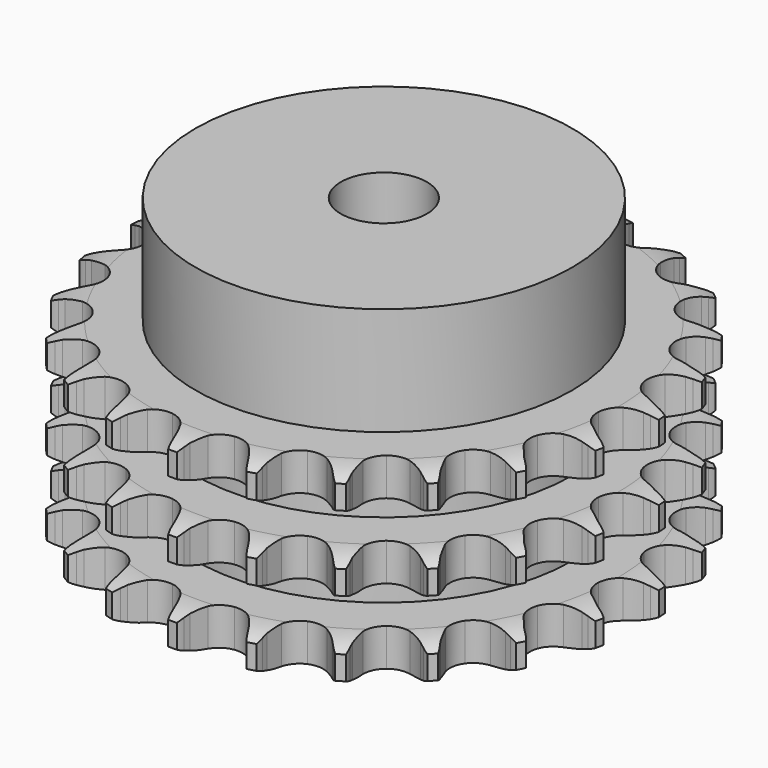
from build123d import *

# Parameters (mm, degrees)
PAD_DEPTH         = 34.9
SKETCH001_R       = 35
PAD001_DEPTH      = 55
SKETCH002_R       = 8
POCKET_DEPTH      = 0.001
POCKET_DEPTH_BACK = 55.001


with BuildPart() as part:
    # Sprocket → Pad (new body)
    with BuildSketch(Plane.XY):
        with BuildLine():
            ThreePointArc((-6.865869, 49.952903), (-5.980558, 48.870427), (-5.328613, 47.633296))
            Line((-5.328613, 47.633296), (-4.916044, 46.61438))
            ThreePointArc((-4.916044, 46.61438), (-4.255818, 45.256795), (-3.417835, 44.001119))
            ThreePointArc((-3.417835, 44.001119), (-1.904528, 42.762779), (0, 42.319658))
            ThreePointArc((0, 42.319658), (1.904528, 42.762779), (3.417835, 44.001119))
            ThreePointArc((3.417835, 44.001119), (4.255818, 45.256795), (4.916044, 46.61438))
            Line((4.916044, 46.61438), (5.328613, 47.633296))
            ThreePointArc((5.328613, 47.633296), (5.980558, 48.870427), (6.865869, 49.952903))
            ThreePointArc((6.865869, 49.952903), (7.426301, 48.671715), (7.720296, 47.304566))
            Line((7.720296, 47.304566), (7.842665, 46.212126))
            ThreePointArc((7.842665, 46.212126), (8.112137, 44.726756), (8.580267, 43.291559))
            ThreePointArc((8.580267, 43.291559), (9.703357, 41.690855), (11.417707, 40.75033))
            ThreePointArc((11.417707, 40.75033), (13.371163, 40.663184), (15.162452, 41.447317))
            Line((15.162452, 41.447317), (17.310154, 43.55946))
            ThreePointArc((17.310154, 43.55946), (17.635485, 44.00268), (17.982323, 44.429281))
            ThreePointArc((17.982323, 44.429281), (18.943866, 45.444644), (20.088396, 46.248125))
            ThreePointArc((20.088396, 46.248125), (20.282385, 44.863244), (20.196626, 43.467474))
            Line((20.196626, 43.467474), (20.01972, 42.382529))
            ThreePointArc((20.01972, 42.382529), (19.878451, 40.879539), (19.942011, 39.371262))
            ThreePointArc((19.942011, 39.371262), (20.591588, 37.526911), (21.988615, 36.158737))
            ThreePointArc((21.988615, 36.158737), (23.84612, 35.547786), (25.78254, 35.819558))
            Line((25.78254, 35.819558), (28.420448, 37.273933))
            ThreePointArc((28.420448, 37.273933), (28.853295, 37.612944), (29.302366, 37.930151))
            ThreePointArc((29.302366, 37.930151), (30.502195, 38.648439), (31.821058, 39.113335))
            ThreePointArc((31.821058, 39.113335), (31.634217, 37.727471), (31.175064, 36.406597))
            Line((31.175064, 36.406597), (30.712004, 35.409614))
            ThreePointArc((30.712004, 35.409614), (30.170472, 34.000472), (29.824746, 32.530979))
            ThreePointArc((29.824746, 32.530979), (29.952635, 30.579767), (30.928728, 28.885416))
            ThreePointArc((30.928728, 28.885416), (32.552519, 27.795972), (34.490454, 27.535225))
            Line((34.490454, 27.535225), (37.422927, 28.22397))
            ThreePointArc((37.422927, 28.22397), (37.931187, 28.433628), (38.449187, 28.617914))
            ThreePointArc((38.449187, 28.617914), (39.798315, 28.985857), (41.193698, 29.077688))
            ThreePointArc((41.193698, 29.077688), (40.639884, 27.793624), (39.841391, 26.64561))
            Line((39.841391, 26.64561), (39.126519, 25.81053))
            ThreePointArc((39.126519, 25.81053), (38.224887, 24.599747), (37.495517, 23.278022))
            ThreePointArc((37.495517, 23.278022), (37.092233, 21.364662), (37.574999, 19.469795))
            ThreePointArc((37.574999, 19.469795), (38.844646, 17.982657), (40.64037, 17.208731))
            Line((40.64037, 17.208731), (43.64992, 17.080764))
            ThreePointArc((43.64992, 17.080764), (44.195897, 17.14552), (44.744407, 17.183218))
            ThreePointArc((44.744407, 17.183218), (46.142776, 17.173526), (47.511191, 16.885481))
            ThreePointArc((47.511191, 16.885481), (46.631477, 15.798452), (45.552864, 14.90844))
            Line((45.552864, 14.90844), (44.639199, 14.297197))
            ThreePointArc((44.639199, 14.297197), (43.444336, 13.37457), (42.385417, 12.29864))
            ThreePointArc((42.385417, 12.29864), (41.480869, 10.565038), (41.434504, 8.610189))
            ThreePointArc((41.434504, 8.610189), (42.255844, 6.835651), (43.776175, 5.605944))
            Line((43.776175, 5.605944), (46.639597, 4.670755))
            ThreePointArc((46.639597, 4.670755), (47.182799, 4.585808), (47.72114, 4.474121))
            ThreePointArc((47.72114, 4.474121), (49.065038, 4.087513), (50.304995, 3.440956))
            ThreePointArc((50.304995, 3.440956), (49.164627, 2.63158), (47.885889, 2.065579))
            Line((47.885889, 2.065579), (46.841194, 1.723506))
            ThreePointArc((46.841194, 1.723506), (45.441718, 1.157463), (44.131784, 0.407125))
            ThreePointArc((44.131784, 0.407125), (42.793059, -1.018147), (42.221001, -2.887996))
            ThreePointArc((42.221001, -2.887996), (42.53312, -4.818323), (43.665301, -6.41261))
            Line((43.665301, -6.41261), (46.170229, -8.085662))
            ThreePointArc((46.170229, -8.085662), (46.670369, -8.314013), (47.158614, -8.566801))
            ThreePointArc((47.158614, -8.566801), (48.348372, -9.301652), (49.367908, -10.258769))
            ThreePointArc((49.367908, -10.258769), (48.051461, -10.730463), (46.667437, -10.930476))
            Line((46.667437, -10.930476), (45.569192, -10.978009))
            ThreePointArc((45.569192, -10.978009), (44.068896, -11.145487), (42.605098, -11.514585))
            ThreePointArc((42.605098, -11.514585), (40.931484, -12.525821), (39.87616, -14.171991))
            ThreePointArc((39.87616, -14.171991), (39.655908, -16.114945), (40.315972, -17.95557))
            Line((40.315972, -17.95557), (42.276626, -20.242402))
            ThreePointArc((42.276626, -20.242402), (42.696611, -20.597222), (43.098549, -20.972363))
            ThreePointArc((43.098549, -20.972363), (44.045927, -22.000956), (44.769429, -23.197649))
            ThreePointArc((44.769429, -23.197649), (43.374538, -23.296678), (41.987874, -23.115868))
            Line((41.987874, -23.115868), (40.917532, -22.865336))
            ThreePointArc((40.917532, -22.865336), (39.427685, -22.621828), (37.918588, -22.582311))
            ThreePointArc((37.918588, -22.582311), (36.034207, -23.104511), (34.573886, -24.404914))
            ThreePointArc((34.573886, -24.404914), (33.837599, -26.216395), (33.976591, -28.166848))
            Line((33.976591, -28.166848), (35.247559, -30.897856))
            ThreePointArc((35.247559, -30.897856), (35.556241, -31.352829), (35.842062, -31.8225))
            ThreePointArc((35.842062, -31.8225), (36.476798, -33.06855), (36.850607, -34.416064))
            ThreePointArc((36.850607, -34.416064), (35.480724, -34.135084), (34.194264, -33.586862))
            Line((34.194264, -33.586862), (33.231205, -33.056845))
            ThreePointArc((33.231205, -33.056845), (31.862304, -32.420412), (30.419829, -31.97521))
            ThreePointArc((30.419829, -31.97521), (28.464438, -31.969646), (26.707426, -32.827836))
            ThreePointArc((26.707426, -32.827836), (25.509711, -34.373495), (25.117323, -36.289119))
            Line((25.117323, -36.289119), (25.604342, -39.261758))
            ThreePointArc((25.604342, -39.261758), (25.778827, -39.78314), (25.927334, -40.312508))
            ThreePointArc((25.927334, -40.312508), (26.202351, -41.683601), (26.198743, -43.081998))
            ThreePointArc((26.198743, -43.081998), (24.955467, -42.441847), (23.864621, -41.566872))
            Line((23.864621, -41.566872), (23.080271, -40.796679))
            ThreePointArc((23.080271, -40.796679), (21.933841, -39.814522), (20.664971, -38.996655))
            ThreePointArc((20.664971, -38.996655), (18.783593, -38.463738), (16.860198, -38.816069))
            ThreePointArc((16.860198, -38.816069), (15.289883, -39.981271), (14.395217, -41.719993))
            Line((14.395217, -41.719993), (14.062168, -44.713794))
            ThreePointArc((14.062168, -44.713794), (14.089516, -45.262918), (14.089693, -45.812722))
            ThreePointArc((14.089693, -45.812722), (13.984596, -47.207169), (13.603839, -48.552737))
            ThreePointArc((13.603839, -48.552737), (12.579377, -47.600893), (11.765048, -46.464057))
            Line((11.765048, -46.464057), (11.21758, -45.51081))
            ThreePointArc((11.21758, -45.51081), (10.378645, -44.255771), (9.377486, -43.125895))
            ThreePointArc((9.377486, -43.125895), (7.709654, -42.105151), (5.762526, -41.92549))
            ThreePointArc((5.762526, -41.92549), (3.936075, -42.623818), (2.605484, -44.056686))
            Line((2.605484, -44.056686), (1.477068, -46.849613))
            ThreePointArc((1.477068, -46.849613), (1.355249, -47.385752), (1.207085, -47.915216))
            ThreePointArc((1.207085, -47.915216), (0.729667, -49.229598), (0, -50.422542))
            ThreePointArc((0, -50.422542), (-0.729667, -49.229598), (-1.207085, -47.915216))
            Line((-1.207085, -47.915216), (-1.477068, -46.849613))
            ThreePointArc((-1.477068, -46.849613), (-1.946287, -45.414771), (-2.605484, -44.056686))
            ThreePointArc((-2.605484, -44.056686), (-3.936075, -42.623818), (-5.762526, -41.92549))
            ThreePointArc((-5.762526, -41.92549), (-7.709654, -42.105151), (-9.377486, -43.125895))
            Line((-9.377486, -43.125895), (-11.21758, -45.51081))
            ThreePointArc((-11.21758, -45.51081), (-11.47953, -45.994201), (-11.765048, -46.464057))
            ThreePointArc((-11.765048, -46.464057), (-12.579377, -47.600893), (-13.603839, -48.552737))
            ThreePointArc((-13.603839, -48.552737), (-13.984596, -47.207169), (-14.089693, -45.812722))
            Line((-14.089693, -45.812722), (-14.062168, -44.713794))
            ThreePointArc((-14.062168, -44.713794), (-14.126872, -43.205566), (-14.395217, -41.719993))
            ThreePointArc((-14.395217, -41.719993), (-15.289883, -39.981271), (-16.860198, -38.816069))
            ThreePointArc((-16.860198, -38.816069), (-18.783593, -38.463738), (-20.664971, -38.996655))
            Line((-20.664971, -38.996655), (-23.080271, -40.796679))
            ThreePointArc((-23.080271, -40.796679), (-23.462925, -41.191472), (-23.864621, -41.566872))
            ThreePointArc((-23.864621, -41.566872), (-24.955467, -42.441847), (-26.198743, -43.081998))
            ThreePointArc((-26.198743, -43.081998), (-26.202351, -41.683601), (-25.927334, -40.312508))
            Line((-25.927334, -40.312508), (-25.604342, -39.261758))
            ThreePointArc((-25.604342, -39.261758), (-25.259732, -37.792002), (-25.117323, -36.289119))
            ThreePointArc((-25.117323, -36.289119), (-25.509711, -34.373495), (-26.707426, -32.827836))
            ThreePointArc((-26.707426, -32.827836), (-28.464438, -31.969646), (-30.419829, -31.97521))
            Line((-30.419829, -31.97521), (-33.231205, -33.056845))
            ThreePointArc((-33.231205, -33.056845), (-33.706182, -33.333759), (-34.194264, -33.586862))
            ThreePointArc((-34.194264, -33.586862), (-35.480724, -34.135084), (-36.850607, -34.416064))
            ThreePointArc((-36.850607, -34.416064), (-36.476798, -33.06855), (-35.842062, -31.8225))
            Line((-35.842062, -31.8225), (-35.247559, -30.897856))
            ThreePointArc((-35.247559, -30.897856), (-34.519193, -29.575578), (-33.976591, -28.166848))
            ThreePointArc((-33.976591, -28.166848), (-33.837599, -26.216395), (-34.573886, -24.404914))
            ThreePointArc((-34.573886, -24.404914), (-36.034207, -23.104511), (-37.918588, -22.582311))
            Line((-37.918588, -22.582311), (-40.917532, -22.865336))
            ThreePointArc((-40.917532, -22.865336), (-41.449606, -23.003833), (-41.987874, -23.115868))
            ThreePointArc((-41.987874, -23.115868), (-43.374538, -23.296678), (-44.769429, -23.197649))
            ThreePointArc((-44.769429, -23.197649), (-44.045927, -22.000956), (-43.098549, -20.972363))
            Line((-43.098549, -20.972363), (-42.276626, -20.242402))
            ThreePointArc((-42.276626, -20.242402), (-41.218523, -19.165669), (-40.315972, -17.95557))
            ThreePointArc((-40.315972, -17.95557), (-39.655908, -16.114945), (-39.87616, -14.171991))
            ThreePointArc((-39.87616, -14.171991), (-40.931484, -12.525821), (-42.605098, -11.514585))
            Line((-42.605098, -11.514585), (-45.569192, -10.978009))
            ThreePointArc((-45.569192, -10.978009), (-46.118902, -10.967819), (-46.667437, -10.930476))
            ThreePointArc((-46.667437, -10.930476), (-48.051461, -10.730463), (-49.367908, -10.258769))
            ThreePointArc((-49.367908, -10.258769), (-48.348372, -9.301652), (-47.158614, -8.566801))
            Line((-47.158614, -8.566801), (-46.170229, -8.085662))
            ThreePointArc((-46.170229, -8.085662), (-44.860864, -7.334329), (-43.665301, -6.41261))
            ThreePointArc((-43.665301, -6.41261), (-42.53312, -4.818323), (-42.221001, -2.887996))
            ThreePointArc((-42.221001, -2.887996), (-42.793059, -1.018147), (-44.131784, 0.407125))
            Line((-44.131784, 0.407125), (-46.841194, 1.723506))
            ThreePointArc((-46.841194, 1.723506), (-47.36777, 1.881628), (-47.885889, 2.065579))
            ThreePointArc((-47.885889, 2.065579), (-49.164627, 2.63158), (-50.304995, 3.440956))
            ThreePointArc((-50.304995, 3.440956), (-49.065038, 4.087513), (-47.72114, 4.474121))
            Line((-47.72114, 4.474121), (-46.639597, 4.670755))
            ThreePointArc((-46.639597, 4.670755), (-45.17608, 5.040964), (-43.776175, 5.605944))
            ThreePointArc((-43.776175, 5.605944), (-42.255844, 6.835651), (-41.434504, 8.610189))
            ThreePointArc((-41.434504, 8.610189), (-41.480869, 10.565038), (-42.385417, 12.29864))
            Line((-42.385417, 12.29864), (-44.639199, 14.297197))
            ThreePointArc((-44.639199, 14.297197), (-45.103588, 14.591524), (-45.552864, 14.90844))
            ThreePointArc((-45.552864, 14.90844), (-46.631477, 15.798452), (-47.511191, 16.885481))
            ThreePointArc((-47.511191, 16.885481), (-46.142776, 17.173526), (-44.744407, 17.183218))
            Line((-44.744407, 17.183218), (-43.64992, 17.080764))
            ThreePointArc((-43.64992, 17.080764), (-42.140792, 17.042392), (-40.64037, 17.208731))
            ThreePointArc((-40.64037, 17.208731), (-38.844646, 17.982657), (-37.574999, 19.469795))
            ThreePointArc((-37.574999, 19.469795), (-37.092233, 21.364662), (-37.495517, 23.278022))
            Line((-37.495517, 23.278022), (-39.126519, 25.81053))
            ThreePointArc((-39.126519, 25.81053), (-39.494278, 26.219233), (-39.841391, 26.64561))
            ThreePointArc((-39.841391, 26.64561), (-40.639884, 27.793624), (-41.193698, 29.077688))
            ThreePointArc((-41.193698, 29.077688), (-39.798315, 28.985857), (-38.449187, 28.617914))
            Line((-38.449187, 28.617914), (-37.422927, 28.22397))
            ThreePointArc((-37.422927, 28.22397), (-35.980115, 27.779863), (-34.490454, 27.535225))
            ThreePointArc((-34.490454, 27.535225), (-32.552519, 27.795972), (-30.928728, 28.885416))
            ThreePointArc((-30.928728, 28.885416), (-29.952635, 30.579767), (-29.824746, 32.530979))
            Line((-29.824746, 32.530979), (-30.712004, 35.409614))
            ThreePointArc((-30.712004, 35.409614), (-30.955859, 35.902381), (-31.175064, 36.406597))
            ThreePointArc((-31.175064, 36.406597), (-31.634217, 37.727471), (-31.821058, 39.113335))
            ThreePointArc((-31.821058, 39.113335), (-30.502195, 38.648439), (-29.302366, 37.930151))
            Line((-29.302366, 37.930151), (-28.420448, 37.273933))
            ThreePointArc((-28.420448, 37.273933), (-27.150958, 36.457029), (-25.78254, 35.819558))
            ThreePointArc((-25.78254, 35.819558), (-23.84612, 35.547786), (-21.988615, 36.158737))
            ThreePointArc((-21.988615, 36.158737), (-20.591588, 37.526911), (-19.942011, 39.371262))
            Line((-19.942011, 39.371262), (-20.01972, 42.382529))
            ThreePointArc((-20.01972, 42.382529), (-20.121585, 42.922814), (-20.196626, 43.467474))
            ThreePointArc((-20.196626, 43.467474), (-20.282385, 44.863244), (-20.088396, 46.248125))
            ThreePointArc((-20.088396, 46.248125), (-18.943866, 45.444644), (-17.982323, 44.429281))
            Line((-17.982323, 44.429281), (-17.310154, 43.55946))
            ThreePointArc((-17.310154, 43.55946), (-16.308138, 42.430345), (-15.162452, 41.447317))
            ThreePointArc((-15.162452, 41.447317), (-13.371163, 40.663184), (-11.417707, 40.75033))
            ThreePointArc((-11.417707, 40.75033), (-9.703357, 41.690855), (-8.580267, 43.291559))
            Line((-8.580267, 43.291559), (-7.842665, 46.212126))
            ThreePointArc((-7.842665, 46.212126), (-7.794985, 46.759859), (-7.720296, 47.304566))
            ThreePointArc((-7.720296, 47.304566), (-7.426301, 48.671715), (-6.865869, 49.952903))
        make_face()
    extrude(amount=PAD_DEPTH)

    # Sketch → Groove (revolve, cut)
    with BuildSketch(Plane.XZ):
        with BuildLine():
            ThreePointArc((43.433431, 0), (46.34032, 0.329167), (49.1, 1.3))
            Line((49.1, 1.3), (49.1, 5.7))
            ThreePointArc((49.1, 5.7), (46.34032, 6.670833), (43.433431, 7))
            Line((35, 7), (43.433431, 7))
            Line((35, 7), (35, 13.95))
            Line((35, 13.95), (43.433431, 13.95))
            ThreePointArc((43.433431, 13.95), (46.34032, 14.279167), (49.1, 15.25))
            Line((49.1, 19.65), (49.1, 15.25))
            ThreePointArc((49.1, 19.65), (46.34032, 20.620833), (43.433431, 20.95))
            Line((35, 20.95), (43.433431, 20.95))
            Line((35, 27.9), (35, 20.95))
            Line((43.433431, 27.9), (35, 27.9))
            ThreePointArc((43.433431, 27.9), (46.34032, 28.229167), (49.1, 29.2))
            Line((49.1, 29.2), (49.1, 33.6))
            ThreePointArc((49.1, 33.6), (46.34032, 34.570833), (43.433431, 34.9))
            Line((43.433431, 34.9), (59.1, 34.9))
            Line((59.1, 34.9), (59.1, 0))
            Line((43.433431, 0), (59.1, 0))
        make_face()
    revolve(axis=Axis((0, 0, 0), (0, 0, 1)), mode=Mode.SUBTRACT)

    # Sketch001 → Pad001 (join)
    with BuildSketch(Plane.XY):
        Circle(SKETCH001_R)
    extrude(amount=PAD001_DEPTH)

    # Sketch002 → Pocket (cut, two sides)
    with BuildSketch(Plane.XY) as pocket_sk:
        Circle(SKETCH002_R)
    extrude(amount=-POCKET_DEPTH, mode=Mode.SUBTRACT)
    extrude(pocket_sk.sketch, amount=POCKET_DEPTH_BACK, mode=Mode.SUBTRACT)


solid = part.part
